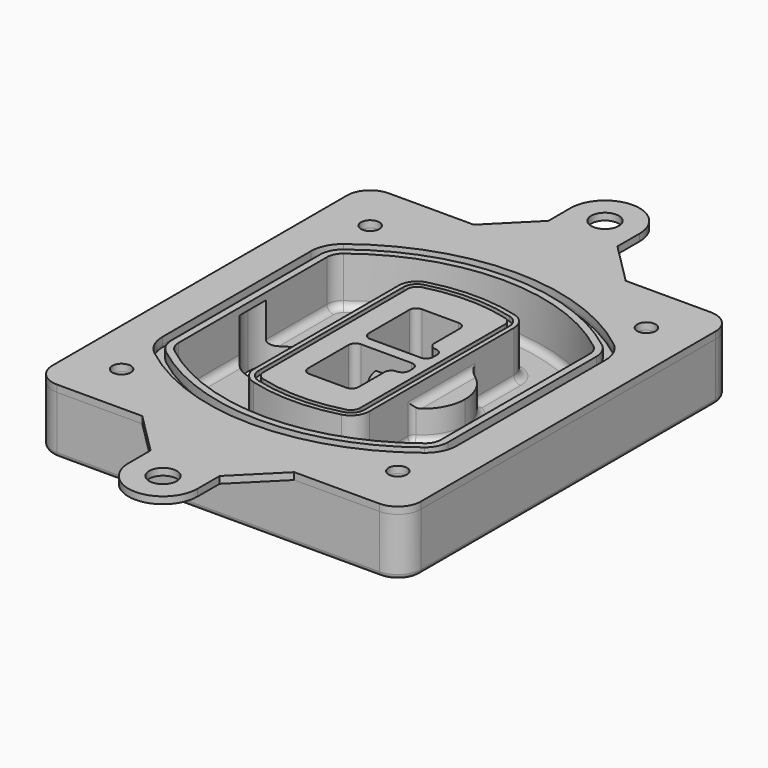
from build123d import *

# Parameters (mm, degrees)
F0_R      = 4
F1_DEPTH  = 25
F2_DEPTH  = 3
F3_DEPTH  = 1
F4_DEPTH  = 18
F6_DEPTH  = 21
F7_DEPTH  = 2
F9_DEPTH  = 20
F10_DEPTH = 16
F11_DEPTH = 25
F8_R      = 6
F8_R_2    = 4
F12_DEPTH = 6
F14_DEPTH = 9
F15_R     = 3
F16_R     = 2
F17_R     = 6
F17_R_2   = 4
F18_DEPTH = 3


with BuildPart() as f1:
    # F0 (on Top) → F1 (new body)
    with BuildSketch(Plane.XY):
        with BuildLine():
            ThreePointArc((14.05, 38.3825811321), (16.9789321881, 31.3115133202), (24.05, 28.3825811321))
            Line((24.05, 28.3825811321), (164.05, 28.3825811321))
            ThreePointArc((164.05, 28.3825811321), (171.1210678119, 31.3115133202), (174.05, 38.3825811321))
            Line((174.05, 38.3825811321), (174.05, 198.3825811321))
            ThreePointArc((174.05, 198.3825811321), (171.1210678119, 205.4536489439), (164.05, 208.3825811321))
            Line((164.05, 208.3825811321), (24.05, 208.3825811321))
            ThreePointArc((24.05, 208.3825811321), (16.9789321881, 205.4536489439), (14.05, 198.3825811321))
            Line((14.05, 198.3825811321), (14.05, 38.3825811321))
        make_face()
        with Locations((34.05, 50.8825811321)):
            Circle(F0_R, mode=Mode.SUBTRACT)
        with Locations((154.05, 50.8825811321)):
            Circle(F0_R, mode=Mode.SUBTRACT)
        with Locations((34.05, 185.8825811321)):
            Circle(F0_R, mode=Mode.SUBTRACT)
        with BuildLine():
            ThreePointArc((30.05, 158.6760234193), (31.4679615202, 164.8154295545), (35.4346153846, 169.7112011673))
            ThreePointArc((35.4346153846, 169.7112011673), (94.05, 189.8825811321), (152.6653846154, 169.7112011673))
            ThreePointArc((152.6653846154, 169.7112011673), (156.6320384798, 164.8154295545), (158.05, 158.6760234193))
            Line((158.05, 158.6760234193), (158.05, 78.0891388448))
            ThreePointArc((158.05, 78.0891388448), (156.6320384798, 71.9497327097), (152.6653846154, 67.0539610969))
            ThreePointArc((152.6653846154, 67.0539610969), (94.05, 46.8825811321), (35.4346153846, 67.0539610969))
            ThreePointArc((35.4346153846, 67.0539610969), (31.4679615202, 71.9497327097), (30.05, 78.0891388448))
            Line((30.05, 78.0891388448), (30.05, 158.6760234193))
        make_face(mode=Mode.SUBTRACT)
        with Locations((154.05, 185.8825811321)):
            Circle(F0_R, mode=Mode.SUBTRACT)
        with BuildLine():
            ThreePointArc((152.6653846154, 169.7112011673), (94.05, 189.8825811321), (35.4346153846, 169.7112011673))
            ThreePointArc((35.4346153846, 169.7112011673), (31.4679615202, 164.8154295545), (30.05, 158.6760234193))
            Line((30.05, 158.6760234193), (30.05, 78.0891388448))
            ThreePointArc((30.05, 78.0891388448), (31.4679615202, 71.9497327097), (35.4346153846, 67.0539610969))
            ThreePointArc((35.4346153846, 67.0539610969), (94.05, 46.8825811321), (152.6653846154, 67.0539610969))
            ThreePointArc((152.6653846154, 67.0539610969), (156.6320384798, 71.9497327097), (158.05, 78.0891388448))
            Line((158.05, 78.0891388448), (158.05, 158.6760234193))
            ThreePointArc((158.05, 158.6760234193), (156.6320384798, 164.8154295545), (152.6653846154, 169.7112011673))
        make_face()
        with BuildLine():
            Line((34.05, 78.0891388448), (34.05, 158.6760234193))
            ThreePointArc((34.05, 158.6760234193), (35.0628296573, 163.0613135158), (37.8961538462, 166.5582932393))
            ThreePointArc((37.8961538462, 166.5582932393), (94.05, 185.8825811321), (150.2038461538, 166.5582932393))
            ThreePointArc((150.2038461538, 166.5582932393), (153.0371703427, 163.0613135158), (154.05, 158.6760234193))
            Line((154.05, 158.6760234193), (154.05, 78.0891388448))
            ThreePointArc((154.05, 78.0891388448), (153.0371703427, 73.7038487483), (150.2038461538, 70.2068690248))
            ThreePointArc((150.2038461538, 70.2068690248), (94.05, 50.8825811321), (37.8961538462, 70.2068690248))
            ThreePointArc((37.8961538462, 70.2068690248), (35.0628296573, 73.7038487483), (34.05, 78.0891388448))
        make_face(mode=Mode.SUBTRACT)
        with BuildLine():
            ThreePointArc((37.8961538462, 166.5582932393), (35.0628296573, 163.0613135158), (34.05, 158.6760234193))
            Line((34.05, 158.6760234193), (34.05, 78.0891388448))
            ThreePointArc((34.05, 78.0891388448), (35.0628296573, 73.7038487483), (37.8961538462, 70.2068690248))
            ThreePointArc((37.8961538462, 70.2068690248), (94.05, 50.8825811321), (150.2038461538, 70.2068690248))
            ThreePointArc((150.2038461538, 70.2068690248), (153.0371703427, 73.7038487483), (154.05, 78.0891388448))
            Line((154.05, 78.0891388448), (154.05, 158.6760234193))
            ThreePointArc((154.05, 158.6760234193), (153.0371703427, 163.0613135158), (150.2038461538, 166.5582932393))
            ThreePointArc((150.2038461538, 166.5582932393), (94.05, 185.8825811321), (37.8961538462, 166.5582932393))
        make_face()
        with BuildLine():
            ThreePointArc((148.3576923077, 164.1936122933), (150.3410192399, 161.7457264869), (151.05, 158.6760234193))
            Line((151.05, 158.6760234193), (151.05, 78.0891388448))
            ThreePointArc((151.05, 78.0891388448), (150.3410192399, 75.0194357772), (148.3576923077, 72.5715499708))
            ThreePointArc((148.3576923077, 72.5715499708), (94.05, 53.8825811321), (39.7423076923, 72.5715499708))
            ThreePointArc((39.7423076923, 72.5715499708), (37.7589807601, 75.0194357772), (37.05, 78.0891388448))
            Line((37.05, 78.0891388448), (37.05, 158.6760234193))
            ThreePointArc((37.05, 158.6760234193), (37.7589807601, 161.7457264869), (39.7423076923, 164.1936122933))
            ThreePointArc((39.7423076923, 164.1936122933), (94.05, 182.8825811321), (148.3576923077, 164.1936122933))
        make_face(mode=Mode.SUBTRACT)
        with BuildLine():
            Line((151.05, 78.0891388448), (151.05, 158.6760234193))
            ThreePointArc((151.05, 158.6760234193), (150.3410192399, 161.7457264869), (148.3576923077, 164.1936122933))
            ThreePointArc((148.3576923077, 164.1936122933), (94.05, 182.8825811321), (39.7423076923, 164.1936122933))
            ThreePointArc((39.7423076923, 164.1936122933), (37.7589807601, 161.7457264869), (37.05, 158.6760234193))
            Line((37.05, 158.6760234193), (37.05, 78.0891388448))
            ThreePointArc((37.05, 78.0891388448), (37.7589807601, 75.0194357772), (39.7423076923, 72.5715499708))
            ThreePointArc((39.7423076923, 72.5715499708), (94.05, 53.8825811321), (148.3576923077, 72.5715499708))
            ThreePointArc((148.3576923077, 72.5715499708), (150.3410192399, 75.0194357772), (151.05, 78.0891388448))
        make_face()
    extrude(amount=-F1_DEPTH)

    # F0 (on Top) → F2 (join)
    with BuildSketch(Plane.XY):
        with BuildLine():
            ThreePointArc((37.8961538462, 166.5582932393), (35.0628296573, 163.0613135158), (34.05, 158.6760234193))
            Line((34.05, 158.6760234193), (34.05, 78.0891388448))
            ThreePointArc((34.05, 78.0891388448), (35.0628296573, 73.7038487483), (37.8961538462, 70.2068690248))
            ThreePointArc((37.8961538462, 70.2068690248), (94.05, 50.8825811321), (150.2038461538, 70.2068690248))
            ThreePointArc((150.2038461538, 70.2068690248), (153.0371703427, 73.7038487483), (154.05, 78.0891388448))
            Line((154.05, 78.0891388448), (154.05, 158.6760234193))
            ThreePointArc((154.05, 158.6760234193), (153.0371703427, 163.0613135158), (150.2038461538, 166.5582932393))
            ThreePointArc((150.2038461538, 166.5582932393), (94.05, 185.8825811321), (37.8961538462, 166.5582932393))
        make_face()
        with BuildLine():
            ThreePointArc((148.3576923077, 164.1936122933), (150.3410192399, 161.7457264869), (151.05, 158.6760234193))
            Line((151.05, 158.6760234193), (151.05, 78.0891388448))
            ThreePointArc((151.05, 78.0891388448), (150.3410192399, 75.0194357772), (148.3576923077, 72.5715499708))
            ThreePointArc((148.3576923077, 72.5715499708), (94.05, 53.8825811321), (39.7423076923, 72.5715499708))
            ThreePointArc((39.7423076923, 72.5715499708), (37.7589807601, 75.0194357772), (37.05, 78.0891388448))
            Line((37.05, 78.0891388448), (37.05, 158.6760234193))
            ThreePointArc((37.05, 158.6760234193), (37.7589807601, 161.7457264869), (39.7423076923, 164.1936122933))
            ThreePointArc((39.7423076923, 164.1936122933), (94.05, 182.8825811321), (148.3576923077, 164.1936122933))
        make_face(mode=Mode.SUBTRACT)
    extrude(amount=F2_DEPTH)

    # F0 (on Top) → F3 (cut)
    with BuildSketch(Plane.XY):
        with BuildLine():
            ThreePointArc((152.6653846154, 169.7112011673), (94.05, 189.8825811321), (35.4346153846, 169.7112011673))
            ThreePointArc((35.4346153846, 169.7112011673), (31.4679615202, 164.8154295545), (30.05, 158.6760234193))
            Line((30.05, 158.6760234193), (30.05, 78.0891388448))
            ThreePointArc((30.05, 78.0891388448), (31.4679615202, 71.9497327097), (35.4346153846, 67.0539610969))
            ThreePointArc((35.4346153846, 67.0539610969), (94.05, 46.8825811321), (152.6653846154, 67.0539610969))
            ThreePointArc((152.6653846154, 67.0539610969), (156.6320384798, 71.9497327097), (158.05, 78.0891388448))
            Line((158.05, 78.0891388448), (158.05, 158.6760234193))
            ThreePointArc((158.05, 158.6760234193), (156.6320384798, 164.8154295545), (152.6653846154, 169.7112011673))
        make_face()
        with BuildLine():
            Line((34.05, 78.0891388448), (34.05, 158.6760234193))
            ThreePointArc((34.05, 158.6760234193), (35.0628296573, 163.0613135158), (37.8961538462, 166.5582932393))
            ThreePointArc((37.8961538462, 166.5582932393), (94.05, 185.8825811321), (150.2038461538, 166.5582932393))
            ThreePointArc((150.2038461538, 166.5582932393), (153.0371703427, 163.0613135158), (154.05, 158.6760234193))
            Line((154.05, 158.6760234193), (154.05, 78.0891388448))
            ThreePointArc((154.05, 78.0891388448), (153.0371703427, 73.7038487483), (150.2038461538, 70.2068690248))
            ThreePointArc((150.2038461538, 70.2068690248), (94.05, 50.8825811321), (37.8961538462, 70.2068690248))
            ThreePointArc((37.8961538462, 70.2068690248), (35.0628296573, 73.7038487483), (34.05, 78.0891388448))
        make_face(mode=Mode.SUBTRACT)
    extrude(amount=-F3_DEPTH, mode=Mode.SUBTRACT)

    # F0 (on Top) → F4 (cut)
    with BuildSketch(Plane.XY):
        with BuildLine():
            Line((151.05, 78.0891388448), (151.05, 158.6760234193))
            ThreePointArc((151.05, 158.6760234193), (150.3410192399, 161.7457264869), (148.3576923077, 164.1936122933))
            ThreePointArc((148.3576923077, 164.1936122933), (94.05, 182.8825811321), (39.7423076923, 164.1936122933))
            ThreePointArc((39.7423076923, 164.1936122933), (37.7589807601, 161.7457264869), (37.05, 158.6760234193))
            Line((37.05, 158.6760234193), (37.05, 78.0891388448))
            ThreePointArc((37.05, 78.0891388448), (37.7589807601, 75.0194357772), (39.7423076923, 72.5715499708))
            ThreePointArc((39.7423076923, 72.5715499708), (94.05, 53.8825811321), (148.3576923077, 72.5715499708))
            ThreePointArc((148.3576923077, 72.5715499708), (150.3410192399, 75.0194357772), (151.05, 78.0891388448))
        make_face()
    extrude(amount=-F4_DEPTH, mode=Mode.SUBTRACT)

    # F5 (on face) → F6 (join, through all)
    with BuildSketch(Plane.XY.offset(3)):
        with BuildLine():
            ThreePointArc((69.05, 79.13605345), (70.6988454002, 74.2716074128), (74.9657088123, 71.4123412437))
            ThreePointArc((74.9657088123, 71.4123412437), (94.05, 68.8825811321), (113.1342911877, 71.4123412437))
            ThreePointArc((113.1342911877, 71.4123412437), (117.4011545998, 74.2716074128), (119.05, 79.13605345))
            Line((119.05, 79.13605345), (119.05, 157.6291088141))
            ThreePointArc((119.05, 157.6291088141), (117.4011545998, 162.4935548514), (113.1342911877, 165.3528210204))
            ThreePointArc((113.1342911877, 165.3528210204), (94.05, 167.8825811321), (74.9657088123, 165.3528210204))
            ThreePointArc((74.9657088123, 165.3528210204), (70.6988454002, 162.4935548514), (69.05, 157.6291088141))
            Line((69.05, 157.6291088141), (69.05, 79.13605345))
        make_face()
        with BuildLine():
            ThreePointArc((112.6132183908, 163.4218929688), (115.8133659499, 161.2774433421), (117.05, 157.6291088141))
            Line((117.05, 157.6291088141), (117.05, 79.13605345))
            ThreePointArc((117.05, 79.13605345), (115.8133659499, 75.4877189221), (112.6132183908, 73.3432692953))
            ThreePointArc((112.6132183908, 73.3432692953), (94.05, 70.8825811321), (75.4867816092, 73.3432692953))
            ThreePointArc((75.4867816092, 73.3432692953), (72.2866340501, 75.4877189221), (71.05, 79.13605345))
            Line((71.05, 79.13605345), (71.05, 157.6291088141))
            ThreePointArc((71.05, 157.6291088141), (72.2866340501, 161.2774433421), (75.4867816092, 163.4218929688))
            ThreePointArc((75.4867816092, 163.4218929688), (94.05, 165.8825811321), (112.6132183908, 163.4218929688))
        make_face(mode=Mode.SUBTRACT)
        with BuildLine():
            Line((117.05, 79.13605345), (117.05, 157.6291088141))
            ThreePointArc((117.05, 157.6291088141), (115.8133659499, 161.2774433421), (112.6132183908, 163.4218929688))
            ThreePointArc((112.6132183908, 163.4218929688), (94.05, 165.8825811321), (75.4867816092, 163.4218929688))
            ThreePointArc((75.4867816092, 163.4218929688), (72.2866340501, 161.2774433421), (71.05, 157.6291088141))
            Line((71.05, 157.6291088141), (71.05, 79.13605345))
            ThreePointArc((71.05, 79.13605345), (72.2866340501, 75.4877189221), (75.4867816092, 73.3432692953))
            ThreePointArc((75.4867816092, 73.3432692953), (94.05, 70.8825811321), (112.6132183908, 73.3432692953))
            ThreePointArc((112.6132183908, 73.3432692953), (115.8133659499, 75.4877189221), (117.05, 79.13605345))
        make_face()
        with BuildLine():
            ThreePointArc((112.0921455939, 161.4909649173), (114.2255772999, 160.0613318328), (115.05, 157.6291088141))
            Line((115.05, 157.6291088141), (115.05, 79.13605345))
            ThreePointArc((115.05, 79.13605345), (114.2255772999, 76.7038304314), (112.0921455939, 75.2741973469))
            ThreePointArc((112.0921455939, 75.2741973469), (94.05, 72.8825811321), (76.0078544061, 75.2741973469))
            ThreePointArc((76.0078544061, 75.2741973469), (73.8744227001, 76.7038304314), (73.05, 79.13605345))
            Line((73.05, 79.13605345), (73.05, 157.6291088141))
            ThreePointArc((73.05, 157.6291088141), (73.8744227001, 160.0613318328), (76.0078544061, 161.4909649173))
            ThreePointArc((76.0078544061, 161.4909649173), (94.05, 163.8825811321), (112.0921455939, 161.4909649173))
        make_face(mode=Mode.SUBTRACT)
        with BuildLine():
            Line((115.05, 79.13605345), (115.05, 157.6291088141))
            ThreePointArc((115.05, 157.6291088141), (114.2255772999, 160.0613318328), (112.0921455939, 161.4909649173))
            ThreePointArc((112.0921455939, 161.4909649173), (94.05, 163.8825811321), (76.0078544061, 161.4909649173))
            ThreePointArc((76.0078544061, 161.4909649173), (73.8744227001, 160.0613318328), (73.05, 157.6291088141))
            Line((73.05, 157.6291088141), (73.05, 79.13605345))
            ThreePointArc((73.05, 79.13605345), (73.8744227001, 76.7038304314), (76.0078544061, 75.2741973469))
            ThreePointArc((76.0078544061, 75.2741973469), (94.05, 72.8825811321), (112.0921455939, 75.2741973469))
            ThreePointArc((112.0921455939, 75.2741973469), (114.2255772999, 76.7038304314), (115.05, 79.13605345))
        make_face()
        with BuildLine():
            Line((86.05, 115.8825811321), (108.05, 115.8825811321))
            ThreePointArc((108.05, 115.8825811321), (110.1713203436, 115.0039014756), (111.05, 112.8825811321))
            Line((111.05, 112.8825811321), (111.05, 110.8825811321))
            ThreePointArc((111.05, 110.8825811321), (110.1713203436, 108.7612607885), (108.05, 107.8825811321))
            ThreePointArc((108.05, 107.8825811321), (105.9286796564, 107.0039014756), (105.05, 104.8825811321))
            Line((105.05, 104.8825811321), (105.05, 90.8825811321))
            ThreePointArc((105.05, 90.8825811321), (104.1713203436, 88.7612607885), (102.05, 87.8825811321))
            Line((102.05, 87.8825811321), (86.05, 87.8825811321))
            ThreePointArc((86.05, 87.8825811321), (83.9286796564, 88.7612607885), (83.05, 90.8825811321))
            Line((83.05, 90.8825811321), (83.05, 112.8825811321))
            ThreePointArc((83.05, 112.8825811321), (83.9286796564, 115.0039014756), (86.05, 115.8825811321))
        make_face(mode=Mode.SUBTRACT)
        with BuildLine():
            ThreePointArc((86.05, 120.8825811321), (83.9286796564, 121.7612607885), (83.05, 123.8825811321))
            Line((83.05, 123.8825811321), (83.05, 145.8825811321))
            ThreePointArc((83.05, 145.8825811321), (83.9286796564, 148.0039014756), (86.05, 148.8825811321))
            Line((86.05, 148.8825811321), (102.05, 148.8825811321))
            ThreePointArc((102.05, 148.8825811321), (104.1713203436, 148.0039014756), (105.05, 145.8825811321))
            Line((105.05, 145.8825811321), (105.05, 131.8825811321))
            ThreePointArc((105.05, 131.8825811321), (105.9286796564, 129.7612607885), (108.05, 128.8825811321))
            ThreePointArc((108.05, 128.8825811321), (110.1713203436, 128.0039014756), (111.05, 125.8825811321))
            Line((111.05, 125.8825811321), (111.05, 123.8825811321))
            ThreePointArc((111.05, 123.8825811321), (110.1713203436, 121.7612607885), (108.05, 120.8825811321))
            Line((108.05, 120.8825811321), (86.05, 120.8825811321))
        make_face(mode=Mode.SUBTRACT)
    extrude(amount=-F6_DEPTH)

    # F5 (on face) → F7 (cut)
    with BuildSketch(Plane.XY.offset(3)):
        with BuildLine():
            Line((117.05, 79.13605345), (117.05, 157.6291088141))
            ThreePointArc((117.05, 157.6291088141), (115.8133659499, 161.2774433421), (112.6132183908, 163.4218929688))
            ThreePointArc((112.6132183908, 163.4218929688), (94.05, 165.8825811321), (75.4867816092, 163.4218929688))
            ThreePointArc((75.4867816092, 163.4218929688), (72.2866340501, 161.2774433421), (71.05, 157.6291088141))
            Line((71.05, 157.6291088141), (71.05, 79.13605345))
            ThreePointArc((71.05, 79.13605345), (72.2866340501, 75.4877189221), (75.4867816092, 73.3432692953))
            ThreePointArc((75.4867816092, 73.3432692953), (94.05, 70.8825811321), (112.6132183908, 73.3432692953))
            ThreePointArc((112.6132183908, 73.3432692953), (115.8133659499, 75.4877189221), (117.05, 79.13605345))
        make_face()
        with BuildLine():
            ThreePointArc((112.0921455939, 161.4909649173), (114.2255772999, 160.0613318328), (115.05, 157.6291088141))
            Line((115.05, 157.6291088141), (115.05, 79.13605345))
            ThreePointArc((115.05, 79.13605345), (114.2255772999, 76.7038304314), (112.0921455939, 75.2741973469))
            ThreePointArc((112.0921455939, 75.2741973469), (94.05, 72.8825811321), (76.0078544061, 75.2741973469))
            ThreePointArc((76.0078544061, 75.2741973469), (73.8744227001, 76.7038304314), (73.05, 79.13605345))
            Line((73.05, 79.13605345), (73.05, 157.6291088141))
            ThreePointArc((73.05, 157.6291088141), (73.8744227001, 160.0613318328), (76.0078544061, 161.4909649173))
            ThreePointArc((76.0078544061, 161.4909649173), (94.05, 163.8825811321), (112.0921455939, 161.4909649173))
        make_face(mode=Mode.SUBTRACT)
    extrude(amount=-F7_DEPTH, mode=Mode.SUBTRACT)

    # F8 (on face) → F9 (join)
    with BuildSketch(Plane(origin=(0, 0, -25), x_dir=(1, 0, 0), z_dir=(0, 0, -1))):
        with BuildLine():
            ThreePointArc((97.33842436, -118.3825811321), (110.8067035675, -104.9143019245), (124.274982775, -118.3825811321))
            Line((124.274982775, -118.3825811321), (129.274982775, -118.3825811321))
            ThreePointArc((129.274982775, -118.3825811321), (110.8067035675, -99.9143019245), (92.33842436, -118.3825811321))
            Line((92.33842436, -118.3825811321), (97.33842436, -118.3825811321))
        make_face()
        with BuildLine():
            Line((97.33842436, -118.3825811321), (124.274982775, -118.3825811321))
            ThreePointArc((124.274982775, -118.3825811321), (110.8067035675, -104.9143019245), (97.33842436, -118.3825811321))
        make_face()
        with BuildLine():
            ThreePointArc((97.33842436, -118.3825811321), (110.8067035675, -131.8508603396), (124.274982775, -118.3825811321))
            Line((124.274982775, -118.3825811321), (97.33842436, -118.3825811321))
        make_face()
        with BuildLine():
            Line((129.274982775, -118.3825811321), (124.274982775, -118.3825811321))
            ThreePointArc((124.274982775, -118.3825811321), (110.8067035675, -131.8508603396), (97.33842436, -118.3825811321))
            Line((97.33842436, -118.3825811321), (92.33842436, -118.3825811321))
            ThreePointArc((92.33842436, -118.3825811321), (110.8067035675, -136.8508603396), (129.274982775, -118.3825811321))
        make_face()
    extrude(amount=-F9_DEPTH)

    # F8 (on face) → F10 (cut)
    with BuildSketch(Plane(origin=(0, 0, -25), x_dir=(1, 0, 0), z_dir=(0, 0, -1))):
        with BuildLine():
            Line((97.33842436, -118.3825811321), (124.274982775, -118.3825811321))
            ThreePointArc((124.274982775, -118.3825811321), (110.8067035675, -104.9143019245), (97.33842436, -118.3825811321))
        make_face()
        with BuildLine():
            ThreePointArc((97.33842436, -118.3825811321), (110.8067035675, -131.8508603396), (124.274982775, -118.3825811321))
            Line((124.274982775, -118.3825811321), (97.33842436, -118.3825811321))
        make_face()
    extrude(amount=-F10_DEPTH, mode=Mode.SUBTRACT)

    # F8 (on face) → F11 (cut)
    with BuildSketch(Plane(origin=(0, 0, -25), x_dir=(1, 0, 0), z_dir=(0, 0, -1))):
        with BuildLine():
            Line((35.0181770675, -118.3825811321), (61.9547354825, -118.3825811321))
            ThreePointArc((61.9547354825, -118.3825811321), (48.486456275, -104.9143019245), (35.0181770675, -118.3825811321))
        make_face()
        with BuildLine():
            ThreePointArc((35.0181770675, -118.3825811321), (48.486456275, -131.8508603396), (61.9547354825, -118.3825811321))
            Line((61.9547354825, -118.3825811321), (35.0181770675, -118.3825811321))
        make_face()
    extrude(amount=-F11_DEPTH, mode=Mode.SUBTRACT)

    # F8 (on face) → F12 (cut)
    with BuildSketch(Plane(origin=(0, 0, -25), x_dir=(1, 0, 0), z_dir=(0, 0, -1))):
        with Locations((154.05, -185.8825811321)):
            Circle(F8_R)
        with Locations((154.05, -185.8825811321)):
            Circle(F8_R_2, mode=Mode.SUBTRACT)
        with Locations((154.05, -185.8825811321)):
            Circle(F8_R)
        with Locations((154.05, -185.8825811321)):
            Circle(F8_R_2, mode=Mode.SUBTRACT)
        with Locations((34.05, -185.8825811321)):
            Circle(F8_R)
        with Locations((34.05, -185.8825811321)):
            Circle(F8_R_2, mode=Mode.SUBTRACT)
        with Locations((34.05, -185.8825811321)):
            Circle(F8_R)
        with Locations((34.05, -185.8825811321)):
            Circle(F8_R_2, mode=Mode.SUBTRACT)
        with Locations((34.05, -50.8825811321)):
            Circle(F8_R)
        with Locations((34.05, -50.8825811321)):
            Circle(F8_R_2, mode=Mode.SUBTRACT)
        with Locations((34.05, -50.8825811321)):
            Circle(F8_R)
        with Locations((34.05, -50.8825811321)):
            Circle(F8_R_2, mode=Mode.SUBTRACT)
        with Locations((154.05, -50.8825811321)):
            Circle(F8_R)
        with Locations((154.05, -50.8825811321)):
            Circle(F8_R_2, mode=Mode.SUBTRACT)
        with Locations((154.05, -50.8825811321)):
            Circle(F8_R)
        with Locations((154.05, -50.8825811321)):
            Circle(F8_R_2, mode=Mode.SUBTRACT)
    extrude(amount=-F12_DEPTH, mode=Mode.SUBTRACT)

    # F13 (on face) → F14 (cut, through all)
    with BuildSketch(Plane(origin=(0, 0, -9), x_dir=(1, 0, 0), z_dir=(0, 0, -1))):
        with BuildLine():
            Line((105.05, -104.8825811321), (105.05, -100.8344273567))
            ThreePointArc((105.05, -100.8344273567), (96.6196536419, -106.5586667507), (92.5084157545, -115.8825811321))
            Line((92.5084157545, -115.8825811321), (97.5724848595, -115.8825811321))
            ThreePointArc((97.5724848595, -115.8825811321), (100.2357188154, -110.0369939039), (105.3036447004, -106.0898642673))
            ThreePointArc((105.3036447004, -106.0898642673), (105.1140958889, -105.4994012441), (105.05, -104.8825811321))
        make_face()
        with BuildLine():
            ThreePointArc((105.3036447004, -130.6752979968), (100.2357188154, -126.7281683602), (97.5724848595, -120.8825811321))
            Line((97.5724848595, -120.8825811321), (92.5084157545, -120.8825811321))
            ThreePointArc((92.5084157545, -120.8825811321), (96.6196536419, -130.2064955134), (105.05, -135.9307349074))
            Line((105.05, -135.9307349074), (105.05, -131.8825811321))
            ThreePointArc((105.05, -131.8825811321), (105.1140958889, -131.26576102), (105.3036447004, -130.6752979968))
        make_face()
        with BuildLine():
            ThreePointArc((105.3036447004, -106.0898642673), (100.2357188154, -110.0369939039), (97.5724848595, -115.8825811321))
            Line((97.5724848595, -115.8825811321), (108.05, -115.8825811321))
            ThreePointArc((108.05, -115.8825811321), (110.1713203436, -115.0039014756), (111.05, -112.8825811321))
            Line((111.05, -112.8825811321), (111.05, -110.8825811321))
            ThreePointArc((111.05, -110.8825811321), (110.1713203436, -108.7612607885), (108.05, -107.8825811321))
            ThreePointArc((108.05, -107.8825811321), (106.4101599782, -107.3947365219), (105.3036447004, -106.0898642673))
        make_face()
        with BuildLine():
            Line((108.05, -120.8825811321), (97.5724848595, -120.8825811321))
            ThreePointArc((97.5724848595, -120.8825811321), (100.2357188154, -126.7281683602), (105.3036447004, -130.6752979968))
            ThreePointArc((105.3036447004, -130.6752979968), (106.4101599782, -129.3704257422), (108.05, -128.8825811321))
            ThreePointArc((108.05, -128.8825811321), (110.1713203436, -128.0039014756), (111.05, -125.8825811321))
            Line((111.05, -125.8825811321), (111.05, -123.8825811321))
            ThreePointArc((111.05, -123.8825811321), (110.1713203436, -121.7612607885), (108.05, -120.8825811321))
        make_face()
    extrude(amount=F14_DEPTH, mode=Mode.SUBTRACT)

    # F15
    f15_edges = [f1.edges().sort_by_distance(p)[0] for p in [
        (37.05, 94.679105, -18),
        (37.05, 142.086057, -18),
        (119.05, 118.382581, -5),
        (119.05, 134.909087, -11.5),
        (119.05, 101.856075, -11.5),
        (119.05, 90.496064, -18),
        (129.274983, 118.382581, -18),
    ]]
    fillet(f15_edges, radius=F15_R)

    # F16
    f16_edges = [f1.edges().sort_by_distance(p)[0] for p in [
        (94.05, 28.382581, -25),
    ]]
    fillet(f16_edges, radius=F16_R)


with BuildPart() as f18:
    # F17 (on face) → F18 (new body, through all)
    with BuildSketch(Plane.XY):
        with BuildLine():
            Line((79.05, 226.3825811321), (61.05, 208.3825811321))
            Line((61.05, 208.3825811321), (127.05, 208.3825811321))
            Line((127.05, 208.3825811321), (109.05, 226.3825811321))
            Line((109.05, 226.3825811321), (109.05, 238.3825811321))
            ThreePointArc((109.05, 238.3825811321), (94.05, 253.3825811321), (79.05, 238.3825811321))
            Line((79.05, 238.3825811321), (79.05, 226.3825811321))
        make_face()
        with Locations((94.05, 238.3825811321)):
            Circle(F17_R, mode=Mode.SUBTRACT)
        with BuildLine():
            Line((14.05, 198.3825811321), (14.05, 38.3825811321))
            ThreePointArc((14.05, 38.3825811321), (16.9789321881, 31.3115133202), (24.05, 28.3825811321))
            Line((24.05, 28.3825811321), (61.05, 28.3825811321))
            Line((61.05, 28.3825811321), (127.05, 28.3825811321))
            Line((127.05, 28.3825811321), (164.05, 28.3825811321))
            ThreePointArc((164.05, 28.3825811321), (171.1210678119, 31.3115133202), (174.05, 38.3825811321))
            Line((174.05, 38.3825811321), (174.05, 198.3825811321))
            ThreePointArc((174.05, 198.3825811321), (171.1210678119, 205.4536489439), (164.05, 208.3825811321))
            Line((164.05, 208.3825811321), (127.05, 208.3825811321))
            Line((127.05, 208.3825811321), (61.05, 208.3825811321))
            Line((61.05, 208.3825811321), (24.05, 208.3825811321))
            ThreePointArc((24.05, 208.3825811321), (16.9789321881, 205.4536489439), (14.05, 198.3825811321))
        make_face()
        with Locations((34.05, 50.8825811321)):
            Circle(F17_R_2, mode=Mode.SUBTRACT)
        with Locations((154.05, 50.8825811321)):
            Circle(F17_R_2, mode=Mode.SUBTRACT)
        with Locations((34.05, 185.8825811321)):
            Circle(F17_R_2, mode=Mode.SUBTRACT)
        with BuildLine():
            ThreePointArc((30.05, 158.6760234193), (31.4679615202, 164.8154295545), (35.4346153846, 169.7112011673))
            ThreePointArc((35.4346153846, 169.7112011673), (94.05, 189.8825811321), (152.6653846154, 169.7112011673))
            ThreePointArc((152.6653846154, 169.7112011673), (156.6320384798, 164.8154295545), (158.05, 158.6760234193))
            Line((158.05, 158.6760234193), (158.05, 78.0891388448))
            ThreePointArc((158.05, 78.0891388448), (156.6320384798, 71.9497327097), (152.6653846154, 67.0539610969))
            ThreePointArc((152.6653846154, 67.0539610969), (94.05, 46.8825811321), (35.4346153846, 67.0539610969))
            ThreePointArc((35.4346153846, 67.0539610969), (31.4679615202, 71.9497327097), (30.05, 78.0891388448))
            Line((30.05, 78.0891388448), (30.05, 158.6760234193))
        make_face(mode=Mode.SUBTRACT)
        with Locations((154.05, 185.8825811321)):
            Circle(F17_R_2, mode=Mode.SUBTRACT)
        with BuildLine():
            Line((127.05, 28.3825811321), (61.05, 28.3825811321))
            Line((61.05, 28.3825811321), (79.05, 10.3825811321))
            Line((79.05, 10.3825811321), (79.05, -1.6174188679))
            ThreePointArc((79.05, -1.6174188679), (94.05, -16.6174188679), (109.05, -1.6174188679))
            Line((109.05, -1.6174188679), (109.05, 10.3825811321))
            Line((109.05, 10.3825811321), (127.05, 28.3825811321))
        make_face()
        with Locations((94.05, -1.6174188679)):
            Circle(F17_R, mode=Mode.SUBTRACT)
    extrude(amount=F18_DEPTH)


solid = Compound([f1.part, f18.part])
